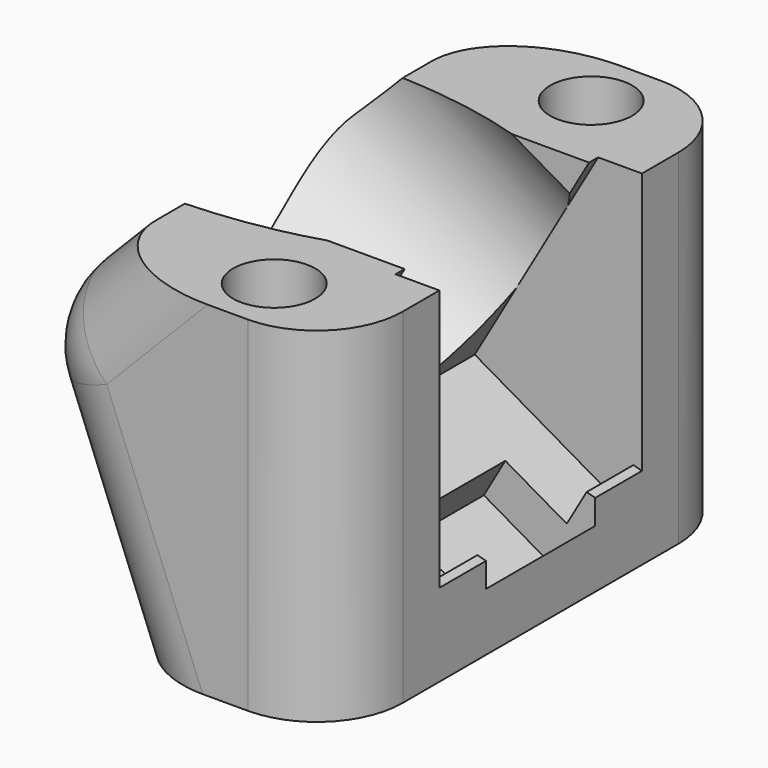
from build123d import *

# Parameters (mm, degrees)
F1_DEPTH       = 15
F1_DEPTH_BACK  = 15
F6_R           = 5
F5_R           = 2.38125
F7_DEPTH       = 25
F7_DEPTH_BACK  = 25
F10_DEPTH      = 9.3
F11_START      = -9.3
F11_DEPTH      = 15.7
F12_SIZE       = 1
F14_R          = 3
F16_DEPTH      = 2.5
F15_W          = 5.334
F15_H          = 7.923
F17_DEPTH      = 25
F17_DEPTH_BACK = 2.5


with BuildPart() as f1:
    # F0 (on Front) → F1 (new body, two sides)
    with BuildSketch(Plane.XZ) as f1_sk:
        Polygon((-13, -10.8026722446), (0, -10.8026722446), (0, 9.1973277554), (-14.3321100622, 9.1973277554), (-19.0368395666, 4.3939077003), align=None)
    extrude(amount=F1_DEPTH)
    extrude(f1_sk.sketch, amount=-F1_DEPTH_BACK)

    # F6
    f6_edges = [f1.edges().sort_by_distance(p)[0] for p in [
        (-19.03684, 0, 4.393908),
        (-16.01842, -15, -3.204382),
        (-16.01842, 15, -3.204382),
        (-16.684475, -15, 6.795618),
        (-16.684475, 15, 6.795618),
        (0, -15, -0.802672),
        (0, 15, -0.802672),
    ]]
    fillet(f6_edges, radius=F6_R)

    # F5 (on Top) → F7 (cut, two sides)
    with BuildSketch(Plane.XY) as f7_sk:
        with Locations((-6.2674125656, -11.5)):
            Circle(F5_R)
        with Locations((-6.2674125656, 11.5)):
            Circle(F5_R)
    extrude(amount=-F7_DEPTH, mode=Mode.SUBTRACT)
    extrude(f7_sk.sketch, amount=F7_DEPTH_BACK, mode=Mode.SUBTRACT)

    # F9 (on face) → F10 (cut)
    with BuildSketch(Plane(origin=(2.1650635095, 0, -1.25), x_dir=(0, 1, 0), z_dir=(0.8660254038, 0, -0.5))):
        Polygon((-7.35, -7.6351069248), (7.35, -7.6351069248), (7.35, 8.0451745412), (7.35, 12.5973122194), (-7.35, 12.5973122194), (-7.35, 8.0451745412), align=None)
    extrude(amount=-F10_DEPTH, mode=Mode.SUBTRACT)

    # F8 (on face) → F11 (cut)
    with BuildSketch(Plane(origin=(2.1650635095, 0, -1.25), x_dir=(0, 1, 0), z_dir=(0.8660254038, 0, -0.5)).offset(F11_START)):
        with BuildLine():
            Line((-6.6921999912, 12.0207928121), (-6.6921999912, 4.4500407902))
            ThreePointArc((-6.6921999912, 4.4500407902), (0, -7.7199661918), (6.6921999912, 4.4500407902))
            Line((6.6921999912, 4.4500407902), (6.6921999912, 12.0207928121))
            Line((6.6921999912, 12.0207928121), (-6.6921999912, 12.0207928121))
        make_face()
    extrude(amount=-F11_DEPTH, mode=Mode.SUBTRACT)

    # F12
    f12_edges = [f1.edges().sort_by_distance(p)[0] for p in [
        (0, 0, -5),
    ]]
    chamfer(f12_edges, length=F12_SIZE)

    # F14 (on face) → F16 (cut)
    with BuildSketch(Plane(origin=(-3.8175534624, 0, -6.6121965575), x_dir=(0.8660254038, 0, -0.5), z_dir=(-0.5, 0, -0.8660254038))):
        with Locations((-1.596442773, 4.0683373809)):
            Circle(F14_R)
    extrude(amount=F16_DEPTH, mode=Mode.SUBTRACT)

    # F15 (on face) → F17 (cut, two sides)
    with BuildSketch(Plane(origin=(-3.8175534624, 0, -6.6121965575), x_dir=(0.8660254038, 0, -0.5), z_dir=(-0.5, 0, -0.8660254038))) as f17_sk:
        with Locations((1.0496865725, 0)):
            Rectangle(F15_W, F15_H)
    extrude(amount=-F17_DEPTH, mode=Mode.SUBTRACT)
    extrude(f17_sk.sketch, amount=F17_DEPTH_BACK, mode=Mode.SUBTRACT)


solid = f1.part
